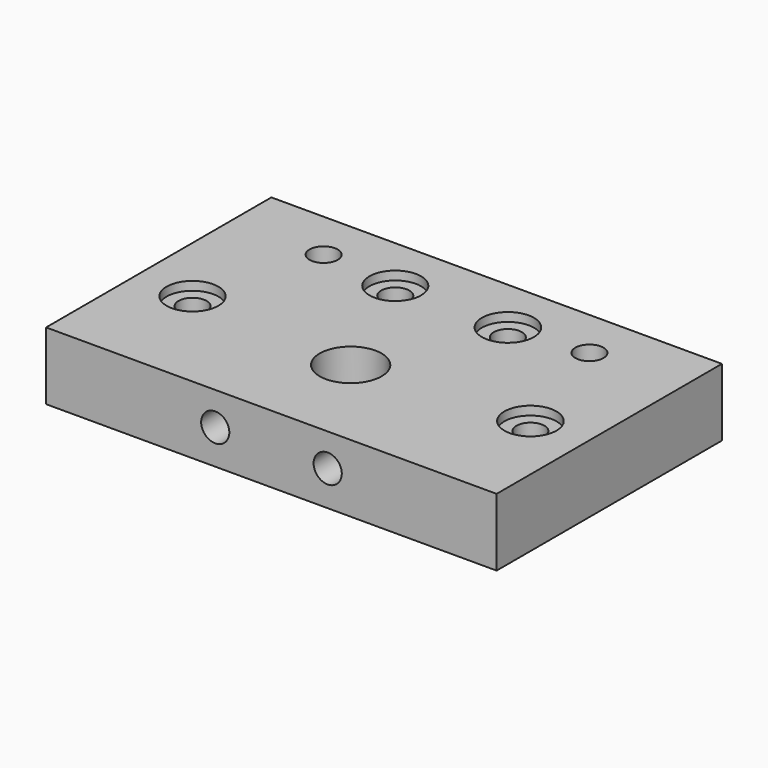
from build123d import *

# Parameters (mm, degrees)
SKETCH023_W     = 80
SKETCH023_H     = 50
SKETCH023_R     = 2.5
SKETCH023_R_2   = 5.5
PAD005_DEPTH    = 12
SKETCH024_R     = 2.5
POCKET015_DEPTH = 11
SKETCH025_R     = 8.05
POCKET016_DEPTH = 4.5
SKETCH026_R     = 4.6
SKETCH026_R_2   = 4.624594
SKETCH026_R_3   = 4.583454
SKETCH026_R_4   = 4.624604
POCKET017_DEPTH = 1.55


with BuildPart() as part:
    # Sketch023 → Pad005 (new body)
    with BuildSketch(Plane(origin=(0, 0, 262), x_dir=(1, 0, 0), z_dir=(0, 0, -1))):
        with Locations((40, 25)):
            Rectangle(SKETCH023_W, SKETCH023_H)
        with Locations((10, 30)):
            Circle(SKETCH023_R, mode=Mode.SUBTRACT)
        with Locations((30, 10)):
            Circle(SKETCH023_R, mode=Mode.SUBTRACT)
        with Locations((16.4, 8.9)):
            Circle(SKETCH023_R, mode=Mode.SUBTRACT)
        with Locations((50, 10)):
            Circle(SKETCH023_R, mode=Mode.SUBTRACT)
        with Locations((63.6, 8.9)):
            Circle(SKETCH023_R, mode=Mode.SUBTRACT)
        with Locations((70, 30)):
            Circle(SKETCH023_R, mode=Mode.SUBTRACT)
        with Locations((40, 32.4)):
            Circle(SKETCH023_R_2, mode=Mode.SUBTRACT)
    extrude(amount=PAD005_DEPTH)

    # Sketch024 → Pocket015 (cut)
    with BuildSketch(Plane(origin=(0, -50, 262), x_dir=(-1, 0, 0), z_dir=(0, -1, 0))):
        with Locations((-30.033846, 5.850095)):
            Circle(SKETCH024_R)
        with Locations((-50.003807, 5.788844)):
            Circle(SKETCH024_R)
    extrude(amount=-POCKET015_DEPTH, mode=Mode.SUBTRACT)

    # Sketch025 → Pocket016 (cut)
    with BuildSketch(Plane(origin=(0, 0, 250), x_dir=(1, 0, 0), z_dir=(0, 0, -1))):
        with Locations((40, 32.4)):
            Circle(SKETCH025_R)
    extrude(amount=-POCKET016_DEPTH, mode=Mode.SUBTRACT)

    # Sketch026 → Pocket017 (cut)
    with BuildSketch(Plane.XY.offset(262)):
        with Locations((10, -30)):
            Circle(SKETCH026_R)
        with Locations((70, -30)):
            Circle(SKETCH026_R_2)
        with Locations((30, -10)):
            Circle(SKETCH026_R_3)
        with Locations((50, -10)):
            Circle(SKETCH026_R_4)
    extrude(amount=-POCKET017_DEPTH, mode=Mode.SUBTRACT)


solid = part.part
